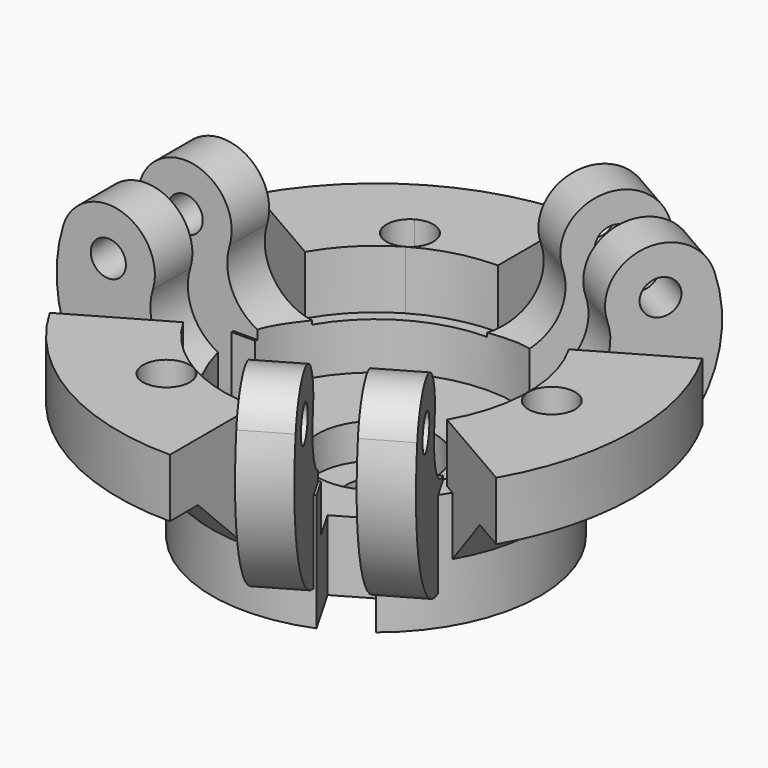
from build123d import *

# Parameters (mm, degrees)
SKETCH024_R           = 14
SKETCH024_R_2         = 2.5
PAD006_DEPTH          = 10
PAD007_DEPTH          = 4
SKETCH026_R           = 1.5
POCKET011_DEPTH       = 5
POLARPATTERN001_COUNT = 3
PAD008_DEPTH          = 5
POLARPATTERN002_COUNT = 3
SKETCH031_W           = 6
SKETCH031_H           = 7
POCKET013_DEPTH       = 155.736206
POLARPATTERN005_COUNT = 3
CHAMFER_SIZE          = 5
SKETCH048_R           = 2
POCKET020_DEPTH       = 5
POLARPATTERN009_COUNT = 3
POCKET027_DEPTH       = 4
POLARPATTERN010_COUNT = 3
SKETCH060_R           = 12
POCKET028_DEPTH       = 5
SKETCH116_R           = 5
POCKET076_DEPTH       = 3


with BuildPart() as part:
    # Sketch024 → Pad006 (new body)
    with BuildSketch(Plane.XY):
        Circle(SKETCH024_R)
        Circle(SKETCH024_R_2, mode=Mode.SUBTRACT)
    extrude(amount=-PAD006_DEPTH)

    # Sketch025 → Pad007 (join)
    with BuildSketch(Plane.XZ.offset(2.1)):
        with BuildLine():
            ThreePointArc((-21.82274, 8.677566), (-19.999991, -2.452603), (-10.028464, -7.722494))
            ThreePointArc((-10.028464, -7.722494), (-5.929578, -3.823887), (-9.828184, 0.274999))
            ThreePointArc((-14.17726, 6.322434), (-13.505131, 2.218243), (-9.828184, 0.274999))
            ThreePointArc((-14.17726, 6.322434), (-16.822434, 11.32274), (-21.82274, 8.677566))
        make_face()
    extrude(amount=PAD007_DEPTH)

    # Sketch026 (on Face5 of Pad007) → Pocket011 (cut)
    with BuildSketch(Plane.XZ.offset(6.1)):
        with Locations((-17.973509, 7.445274)):
            Circle(SKETCH026_R)
    extrude(amount=-POCKET011_DEPTH, mode=Mode.SUBTRACT)

    # Mirrored003: part across XZ


with BuildPart() as part_1:
    add(part.part)
    add(part.part.mirror(Plane.XZ))

    # PolarPattern001: part ×3 about axis
    polarpattern001_axis = Axis((0, 0, 0), (0, 0, 1))


with BuildPart() as part_2:
    add(part_1.part)
    for i in range(1, POLARPATTERN001_COUNT):
        add(part_1.part.rotate(polarpattern001_axis, i * 360 / POLARPATTERN001_COUNT))

    # Sketch027 (on Face1 of PolarPattern001) → Pad008 (join)
    with BuildSketch(Plane.XY):
        with BuildLine():
            ThreePointArc((-0.000709, 22), (-11.000814, 19.052089), (-19.053145, 10.998985))
            Line((-19.053145, 10.998985), (-11.258916, 6.498985))
            ThreePointArc((-0.000709, 13), (-6.500814, 11.25786), (-11.258916, 6.498985))
            Line((-0.000709, 22), (-0.000709, 13))
        make_face()
    pad008 = extrude(amount=PAD008_DEPTH)

    # PolarPattern002: Pad008 ×3 about axis
    polarpattern002_axis = Axis((0, 0, 0), (0, 0, 1))
    for i in range(1, POLARPATTERN002_COUNT):
        add(pad008.rotate(polarpattern002_axis, i * 360 / POLARPATTERN002_COUNT))

    # Sketch031 → Pocket013 (cut, through all)
    with BuildSketch(Plane.YZ):
        with Locations((0, 18.5)):
            Rectangle(SKETCH031_W, SKETCH031_H)
    pocket013 = extrude(amount=-POCKET013_DEPTH, mode=Mode.SUBTRACT)

    # PolarPattern005: Pocket013 ×3 about axis
    polarpattern005_axis = Axis((0, 0, 0), (0, 0, 1))
    for i in range(1, POLARPATTERN005_COUNT):
        add(pocket013.rotate(polarpattern005_axis, i * 360 / POLARPATTERN005_COUNT), mode=Mode.SUBTRACT)

    # Chamfer
    chamfer_edges = [part_2.edges().sort_by_distance(p)[0] for p in [
        (-3.623809, 13.52287, 0),
        (-9.899909, 9.899081, 0),
        (-9.899244, -9.899746, 0),
        (-3.622901, -13.523113, 0),
        (13.52281, 3.624033, 0),
        (13.523053, -3.623124, 0),
    ]]
    chamfer(chamfer_edges, length=CHAMFER_SIZE)

    # Sketch048 (on Face37 of Chamfer) → Pocket020 (cut)
    with BuildSketch(Plane.XY.offset(5)):
        with Locations((15, 0)):
            Circle(SKETCH048_R)
    pocket020 = extrude(amount=-POCKET020_DEPTH, mode=Mode.SUBTRACT)

    # PolarPattern009: Pocket020 ×3 about axis
    polarpattern009_axis = Axis((0, 0, 5), (0, 0, 1))
    for i in range(1, POLARPATTERN009_COUNT):
        add(pocket020.rotate(polarpattern009_axis, i * 360 / POLARPATTERN009_COUNT), mode=Mode.SUBTRACT)

    # Sketch059 (on Face39 of PolarPattern009) → Pocket027 (cut)
    with BuildSketch(Plane(origin=(0, -2.1, 0), x_dir=(-1, 0, 0), z_dir=(0, 1, 0))):
        with BuildLine():
            ThreePointArc((23.463233, -4.296317), (20.141453, 20.322409), (9, -1.880832))
            Line((9, -1.880832), (9, -14.311207))
            Line((9, -14.311207), (23.463233, -14.311207))
            Line((23.463233, -14.311207), (23.463233, -4.296317))
        make_face()
    pocket027 = extrude(amount=POCKET027_DEPTH, mode=Mode.SUBTRACT)

    # PolarPattern010: Pocket027 ×3 about axis
    polarpattern010_axis = Axis((0, 0, 0), (0, 0, 1))
    for i in range(1, POLARPATTERN010_COUNT):
        add(pocket027.rotate(polarpattern010_axis, i * 360 / POLARPATTERN010_COUNT), mode=Mode.SUBTRACT)

    # Sketch060 (on Face7 of PolarPattern010) → Pocket028 (cut)
    with BuildSketch(Plane.XY.offset(1)):
        Circle(SKETCH060_R)
    extrude(amount=-POCKET028_DEPTH, mode=Mode.SUBTRACT)

    # Sketch116 (on Face24 of Pocket028) → Pocket076 (cut)
    with BuildSketch(Plane.XY.offset(-4)):
        Circle(SKETCH116_R)
    extrude(amount=-POCKET076_DEPTH, mode=Mode.SUBTRACT)


with BuildPart() as part_3:
    # Body004 placement: moved
    add(part_2.part.moved(Location((0, 0, -28))))


solid = part_3.part
